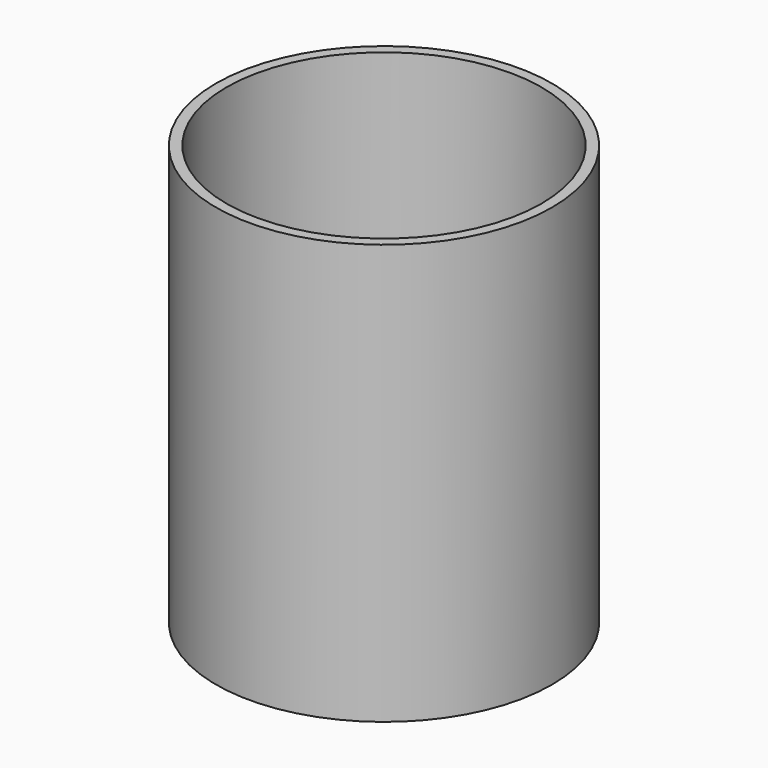
from build123d import *


with BuildPart() as f1:
    # F0 (on Front) → F1 (revolve)
    with BuildSketch(Plane.XZ):
        Polygon((-10, 4), (0, 4), (0, 6), (-10, 6), (-14, 7), (-30, 7), (-30, 79.997411), (-32, 79.997411), (-32, -0.002589), (-31.6, -0.002589), (-29, 3), (-28, 3), (-28, 4.4), (-26, 4.4), (-26, 3), (-23, 3), (-23, 4.4), (-21, 4.4), (-21, 3), (-10, 3), align=None)
    revolve(axis=Axis((0, 0, 5), (0, 0, -1)))


solid = f1.part
